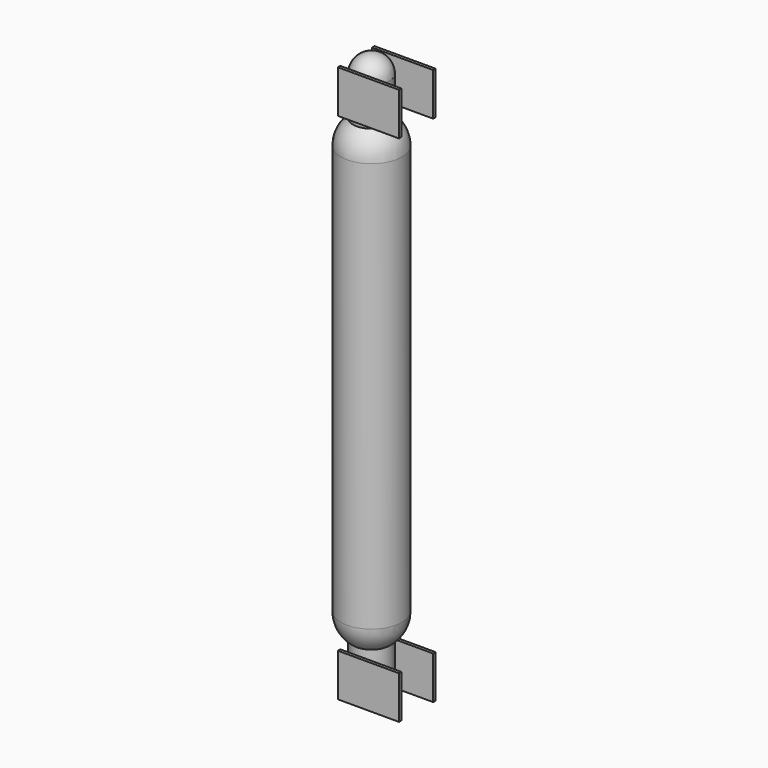
from build123d import *

# Parameters (mm, degrees)
SPHERE_ANGLE              = 180
SPHERE001_ANGLE           = 180
SPHERE002_ANGLE           = 180
CYLINDER046_R             = 3
CYLINDER046_DEPTH         = 6.35
SPHERE003_ANGLE           = 180
CYLINDER047_R             = 3
CYLINDER047_DEPTH         = 6.35
FUSION031_PLACEMENT_ANGLE = 180
BOX053_W                  = 10
BOX053_H                  = 0.5
BOX053_DEPTH              = 7
BOX052_W                  = 10
BOX052_H                  = 0.5
BOX052_DEPTH              = 7
BOX055_W                  = 10
BOX055_H                  = 0.5
BOX055_DEPTH              = 7
BOX054_W                  = 10
BOX054_H                  = 0.5
BOX054_DEPTH              = 7
CYLINDER043_R             = 5
CYLINDER043_DEPTH         = 67


with BuildPart() as sphere:
    # Sphere → Sphere (revolve)
    with BuildSketch(Plane(origin=(-7.5, 7.5, 20), x_dir=(1, 0, 0), z_dir=(0, 0, 1))):
        with BuildLine():
            ThreePointArc((0, -5), (5, 0), (0, 5))
            Line((0, 5), (0, -5))
        make_face()
    revolve(axis=Axis((-7.5, 7.5, 20), (0, 1, 0)), revolution_arc=SPHERE_ANGLE)


with BuildPart() as sphere001:
    # Sphere001 → Sphere001 (revolve)
    with BuildSketch(Plane(origin=(-7.5, 7.5, 87), x_dir=(1, 0, 0), z_dir=(0, 0, -1))):
        with BuildLine():
            ThreePointArc((0, -5), (5, 0), (0, 5))
            Line((0, 5), (0, -5))
        make_face()
    revolve(axis=Axis((-7.5, 7.5, 87), (0, -1, 0)), revolution_arc=SPHERE001_ANGLE)


with BuildPart() as sphere002:
    # Sphere002 → Sphere002 (revolve)
    with BuildSketch(Plane(origin=(-7.5, 7.5, 9.65), x_dir=(1, 0, 0), z_dir=(0, 0, 1))):
        with BuildLine():
            ThreePointArc((0, -3), (3, 0), (0, 3))
            Line((0, 3), (0, -3))
        make_face()
    revolve(axis=Axis((-7.5, 7.5, 9.65), (0, 1, 0)), revolution_arc=SPHERE002_ANGLE)


with BuildPart() as bottomend:
    # Cylinder046 → Cylinder046 (new body)
    with BuildSketch(Plane(origin=(-7.5, 7.5, 9.65), x_dir=(1, 0, 0), z_dir=(0, 0, 1))):
        Circle(CYLINDER046_R)
    extrude(amount=CYLINDER046_DEPTH)

    # Fusion030: union Sphere002
    add(sphere002.part)


with BuildPart() as sphere003:
    # Sphere003 → Sphere003 (revolve)
    with BuildSketch(Plane(origin=(-7.5, 7.5, 9.65), x_dir=(1, 0, 0), z_dir=(0, 0, 1))):
        with BuildLine():
            ThreePointArc((0, -3), (3, 0), (0, 3))
            Line((0, 3), (0, -3))
        make_face()
    revolve(axis=Axis((-7.5, 7.5, 9.65), (0, 1, 0)), revolution_arc=SPHERE003_ANGLE)


with BuildPart() as topend:
    # Cylinder047 → Cylinder047 (new body)
    with BuildSketch(Plane(origin=(-7.5, 7.5, 9.65), x_dir=(1, 0, 0), z_dir=(0, 0, 1))):
        Circle(CYLINDER047_R)
    extrude(amount=CYLINDER047_DEPTH)

    # Fusion031: union Sphere003
    add(sphere003.part)


with BuildPart() as topend_1:
    # Fusion031 placement: moved
    add(topend.part.moved(Location((0, 15, 107))).rotate(Axis((0, 15, 107), (1, 0, 0)), FUSION031_PLACEMENT_ANGLE))


with BuildPart() as cube029:
    # Box053 → Box053 (new body)
    with BuildSketch(Plane(origin=(-10, 10.75, 8), x_dir=(1, 0, 0), z_dir=(0, 0, 1))):
        with Locations((5, 0.25)):
            Rectangle(BOX053_W, BOX053_H)
    extrude(amount=BOX053_DEPTH)


with BuildPart() as bottom_tubehold:
    # Box052 → Box052 (new body)
    with BuildSketch(Plane(origin=(-10, 3.75, 8), x_dir=(1, 0, 0), z_dir=(0, 0, 1))):
        with Locations((5, 0.25)):
            Rectangle(BOX052_W, BOX052_H)
    extrude(amount=BOX052_DEPTH)

    # Fusion032: union Cube029
    add(cube029.part)


with BuildPart() as cube031:
    # Box055 → Box055 (new body)
    with BuildSketch(Plane(origin=(-10, 10.75, 92), x_dir=(1, 0, 0), z_dir=(0, 0, 1))):
        with Locations((5, 0.25)):
            Rectangle(BOX055_W, BOX055_H)
    extrude(amount=BOX055_DEPTH)


with BuildPart() as top_tubehold:
    # Box054 → Box054 (new body)
    with BuildSketch(Plane(origin=(-10, 3.75, 92), x_dir=(1, 0, 0), z_dir=(0, 0, 1))):
        with Locations((5, 0.25)):
            Rectangle(BOX054_W, BOX054_H)
    extrude(amount=BOX054_DEPTH)

    # Fusion033: union Cube031
    add(cube031.part)


with BuildPart() as tube004:
    # Cylinder043 → Cylinder043 (new body)
    with BuildSketch(Plane(origin=(-7.5, 7.5, 20), x_dir=(1, 0, 0), z_dir=(0, 0, 1))):
        Circle(CYLINDER043_R)
    extrude(amount=CYLINDER043_DEPTH)

    # Fusion035: union Sphere, Sphere001, bottomend, topend, bottom_tubehold, top_tubehold
    add(sphere.part)
    add(sphere001.part)
    add(bottomend.part)
    add(topend_1.part)
    add(bottom_tubehold.part)
    add(top_tubehold.part)


solid = tube004.part
